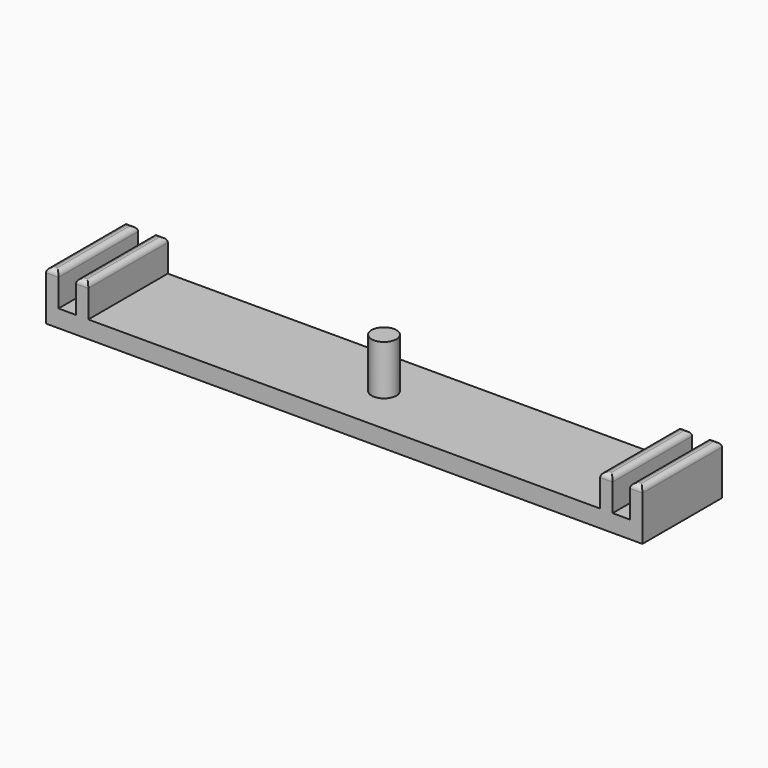
from build123d import *

# Parameters (mm, degrees)
F1_DEPTH = 50.8
F2_R     = 2.54
F3_R     = 6.35
F4_DEPTH = 25.4


with BuildPart() as f1:
    # F0 (on Front) → F1 (new body)
    with BuildSketch(Plane.XZ):
        Polygon((-152.4, 25.4), (-152.4, 0), (0, 0), (152.4, 0), (152.4, 25.4), (146.05, 25.4), (146.05, 8.89), (137.16, 8.89), (137.16, 25.4), (130.81, 25.4), (130.81, 8.89), (0, 8.89), (-130.81, 8.89), (-130.81, 25.4), (-137.16, 25.4), (-137.16, 8.89), (-146.05, 8.89), (-146.05, 25.4), align=None)
    extrude(amount=F1_DEPTH)

    # F2
    f2_edges = [f1.edges().sort_by_distance(p)[0] for p in [
        (-146.05, -25.4, 25.4),
        (-152.4, -25.4, 25.4),
        (-149.225, 0, 25.4),
        (-149.225, -50.8, 25.4),
        (-130.81, -25.4, 25.4),
        (-137.16, -25.4, 25.4),
        (-133.985, 0, 25.4),
        (-133.985, -50.8, 25.4),
        (137.16, -25.4, 25.4),
        (130.81, -25.4, 25.4),
        (133.985, 0, 25.4),
        (133.985, -50.8, 25.4),
        (152.4, -25.4, 25.4),
        (146.05, -25.4, 25.4),
        (149.225, 0, 25.4),
        (149.225, -50.8, 25.4),
    ]]
    fillet(f2_edges, radius=F2_R)

    # F3 (on face) → F4 (join)
    with BuildSketch(Plane.XY.offset(8.89)):
        with Locations((0, -25.4)):
            Circle(F3_R)
    extrude(amount=F4_DEPTH)


solid = f1.part
